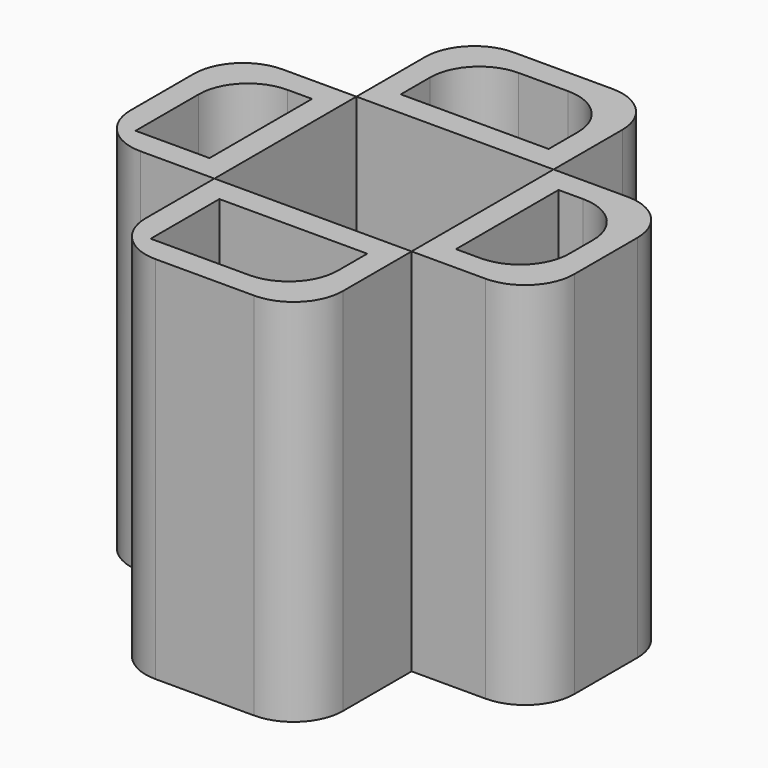
from build123d import *

# Parameters (mm, degrees)
F0_W     = 40
F0_H     = 27.4141125083
F1_DEPTH = 75
F0_W_2   = 25
F0_H_2   = 36
F2_T     = -5
F2_2_T   = -5
F2_3_T   = -5
F2_4_T   = -5
F3_R     = 10
F3_2_R   = 10
F3_3_R   = 10
F3_4_R   = 10


with BuildPart() as f1:
    # F0 (on Top) → F1 (new body)
    with BuildSketch(Plane.XY):
        with Locations((0, 31.7070562541)):
            Rectangle(F0_W, F0_H)
    extrude(amount=F1_DEPTH)

    # F2#3
    f2_3_openings = [f1.faces().sort_by_distance(p)[0] for p in [
        (0, 31.707056, 75),
    ]]
    offset(amount=F2_3_T, openings=f2_3_openings)

    # F3#2
    f3_2_edges = [f1.edges().sort_by_distance(p)[0] for p in [
        (20, 45.414113, 37.5),
        (-20, 45.414113, 37.5),
        (15, 40.414113, 40),
        (-15, 40.414113, 40),
    ]]
    fillet(f3_2_edges, radius=F3_2_R)


with BuildPart() as f1b:
    # F0 (on Top) → F1, piece 2 (new body)
    with BuildSketch(Plane.XY):
        with Locations((32.5, 0)):
            Rectangle(F0_W_2, F0_H_2)
    extrude(amount=F1_DEPTH)

    # F2#2
    f2_2_openings = [f1b.faces().sort_by_distance(p)[0] for p in [
        (32.5, 0, 75),
    ]]
    offset(amount=F2_2_T, openings=f2_2_openings)

    # F3
    f3_edges = [f1b.edges().sort_by_distance(p)[0] for p in [
        (45, 18, 37.5),
        (45, -18, 37.5),
        (40, -13, 40),
        (40, 13, 40),
    ]]
    fillet(f3_edges, radius=F3_R)


with BuildPart() as f1c:
    # F0 (on Top) → F1, piece 3 (new body)
    with BuildSketch(Plane.XY):
        with Locations((-32.5, 0)):
            Rectangle(F0_W_2, F0_H_2)
    extrude(amount=F1_DEPTH)

    # F2#4
    f2_4_openings = [f1c.faces().sort_by_distance(p)[0] for p in [
        (-32.5, 0, 75),
    ]]
    offset(amount=F2_4_T, openings=f2_4_openings)

    # F3#3
    f3_3_edges = [f1c.edges().sort_by_distance(p)[0] for p in [
        (-45, 18, 37.5),
        (-45, -18, 37.5),
        (-40, 13, 40),
    ]]
    fillet(f3_3_edges, radius=F3_3_R)


with BuildPart() as f1d:
    # F0 (on Top) → F1, piece 4 (new body)
    with BuildSketch(Plane.XY):
        with Locations((0, -31.7070562541)):
            Rectangle(F0_W, F0_H)
    extrude(amount=F1_DEPTH)

    # F2
    f2_openings = [f1d.faces().sort_by_distance(p)[0] for p in [
        (0, -31.707056, 75),
    ]]
    offset(amount=F2_T, openings=f2_openings)

    # F3#4
    f3_4_edges = [f1d.edges().sort_by_distance(p)[0] for p in [
        (20, -45.414113, 37.5),
        (-20, -45.414113, 37.5),
        (15, -40.414113, 40),
    ]]
    fillet(f3_4_edges, radius=F3_4_R)


solid = Compound([f1.part, f1b.part, f1c.part, f1d.part])
